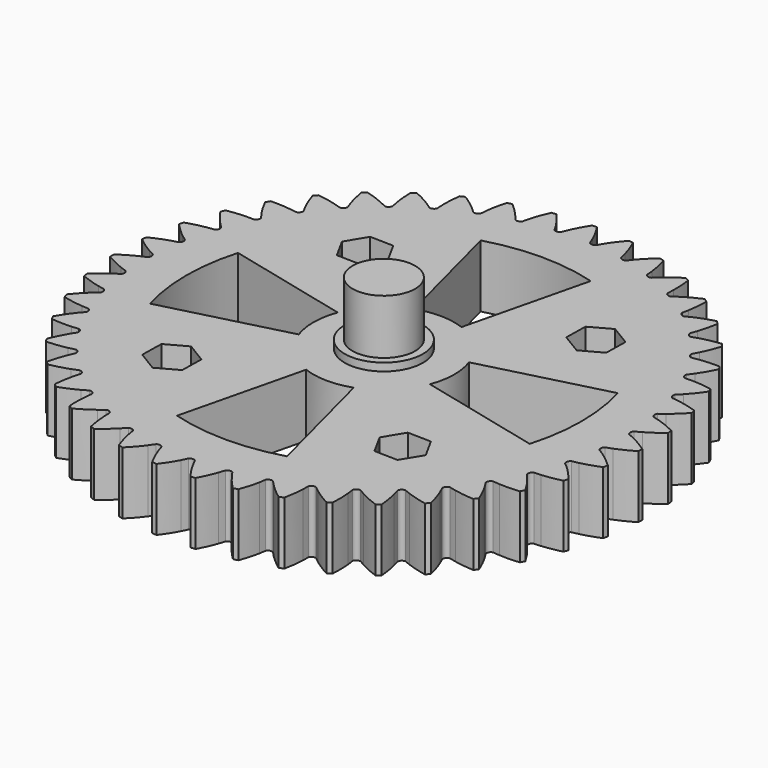
from build123d import *

# Parameters (mm, degrees)
CYLINDER_R              = 4
CYLINDER_DEPTH          = 16
EXTRUDE_DEPTH           = 8
EXTRUDE_PLACEMENT_ANGLE = -2
SKETCH_R                = 1.5
POCKET_DEPTH            = 8.001
POCKET001_DEPTH         = 5
POLARPATTERN001_COUNT   = 4
CYLINDER001_R           = 5
CYLINDER001_DEPTH       = 9
POCKET002_DEPTH         = 201.456551
POLARPATTERN002_COUNT   = 4


with BuildPart() as obj1:
    # Cylinder → Cylinder (new body)
    with BuildSketch(Plane.XY):
        Circle(CYLINDER_R)
    extrude(amount=CYLINDER_DEPTH)


with BuildPart() as polarpattern001:
    # InvoluteGear → Extrude (new body)
    with BuildSketch(Plane.XY):
        with BuildLine():
            add(Edge.make_bspline(
                [(30.694408, -1.848185), (30.944237, -1.757145), (31.209815, -1.651153), (31.489733, -1.527957)],
                knots=[0, 0, 0, 0, 1, 1, 1, 1], degree=3))
            add(Edge.make_bspline(
                [(31.489733, -1.527957), (32.167745, -1.229505), (32.928464, -0.83102), (33.748872, -0.302383)],
                knots=[0, 0, 0, 0, 1, 1, 1, 1], degree=3))
            ThreePointArc((33.748872, -0.302383), (33.750227, 0), (33.748872, 0.302383))
            add(Edge.make_bspline(
                [(33.748872, 0.302383), (32.928464, 0.83102), (32.167745, 1.229505), (31.489733, 1.527957)],
                knots=[0, 0, 0, 0, 1, 1, 1, 1], degree=3))
            add(Edge.make_bspline(
                [(31.489733, 1.527957), (31.209815, 1.651153), (30.944237, 1.757145), (30.694416, 1.848181)],
                knots=[0, 0, 0, 0, 1, 1, 1, 1], degree=3))
            ThreePointArc((30.694416, 1.848181), (30.501549, 2.232422), (30.636407, 2.640652))
            add(Edge.make_bspline(
                [(30.636407, 2.640652), (30.870318, 2.767097), (31.117634, 2.910629), (31.376631, 3.073268)],
                knots=[0, 0, 0, 0, 1, 1, 1, 1], degree=3))
            add(Edge.make_bspline(
                [(31.376631, 3.073268), (32.003963, 3.467258), (32.698555, 3.972258), (33.43325, 4.614714)],
                knots=[0, 0, 0, 0, 1, 1, 1, 1], degree=3))
            ThreePointArc((33.43325, 4.614714), (33.390563, 4.914072), (33.345195, 5.213036))
            add(Edge.make_bspline(
                [(33.345195, 5.213036), (32.45656, 5.616587), (31.645928, 5.900064), (30.931686, 6.096616)],
                knots=[0, 0, 0, 0, 1, 1, 1, 1], degree=3))
            add(Edge.make_bspline(
                [(30.931686, 6.096616), (30.636814, 6.177743), (30.358633, 6.243937), (30.098219, 6.297629)],
                knots=[0, 0, 0, 0, 1, 1, 1, 1], degree=3))
            ThreePointArc((30.098219, 6.297629), (29.851462, 6.649693), (29.925444, 7.073208))
            add(Edge.make_bspline(
                [(29.925444, 7.073208), (30.138451, 7.232363), (30.362234, 7.410375), (30.59479, 7.608991)],
                knots=[0, 0, 0, 0, 1, 1, 1, 1], degree=3))
            add(Edge.make_bspline(
                [(30.59479, 7.608991), (31.158072, 8.090123), (31.771733, 8.690875), (32.405056, 9.433457)],
                knots=[0, 0, 0, 0, 1, 1, 1, 1], degree=3))
            ThreePointArc((32.405056, 9.433457), (32.319237, 9.72341), (32.230824, 10.012582))
            add(Edge.make_bspline(
                [(32.230824, 10.012582), (31.292901, 10.282447), (30.449633, 10.444874), (29.714384, 10.535336)],
                knots=[0, 0, 0, 0, 1, 1, 1, 1], degree=3))
            add(Edge.make_bspline(
                [(29.714384, 10.535336), (29.410842, 10.572665), (29.125988, 10.59765), (28.860531, 10.612853)],
                knots=[0, 0, 0, 0, 1, 1, 1, 1], degree=3))
            ThreePointArc((28.860531, 10.612853), (28.565143, 10.925238), (28.576673, 11.355011))
            add(Edge.make_bspline(
                [(28.576673, 11.355011), (28.764236, 11.543485), (28.959715, 11.752182), (29.160875, 11.982542)],
                knots=[0, 0, 0, 0, 1, 1, 1, 1], degree=3))
            add(Edge.make_bspline(
                [(29.160875, 11.982542), (29.6481, 12.540561), (30.167752, 13.224261), (30.686205, 14.051142)],
                knots=[0, 0, 0, 0, 1, 1, 1, 1], degree=3))
            ThreePointArc((30.686205, 14.051142), (30.559083, 14.32551), (30.429508, 14.598727))
            add(Edge.make_bspline(
                [(30.429508, 14.598727), (29.462288, 14.729153), (28.604357, 14.767069), (27.863772, 14.749514)],
                knots=[0, 0, 0, 0, 1, 1, 1, 1], degree=3))
            add(Edge.make_bspline(
                [(27.863772, 14.749514), (27.55803, 14.742249), (27.272572, 14.725492), (27.007731, 14.701883)],
                knots=[0, 0, 0, 0, 1, 1, 1, 1], degree=3))
            ThreePointArc((27.007731, 14.701883), (26.670007, 14.96793), (26.618839, 15.394802))
            add(Edge.make_bspline(
                [(26.618839, 15.394802), (26.776962, 15.608576), (26.939971, 15.843512), (27.105446, 16.100706)],
                knots=[0, 0, 0, 0, 1, 1, 1, 1], degree=3))
            add(Edge.make_bspline(
                [(27.105446, 16.100706), (27.506231, 16.723719), (27.920798, 17.475795), (28.313331, 18.369352)],
                knots=[0, 0, 0, 0, 1, 1, 1, 1], degree=3))
            ThreePointArc((28.313331, 18.369352), (28.147615, 18.622286), (27.97964, 18.873726))
            add(Edge.make_bspline(
                [(27.97964, 18.873726), (27.003737, 18.861933), (26.149428, 18.774529), (25.419291, 18.649332)],
                knots=[0, 0, 0, 0, 1, 1, 1, 1], degree=3))
            add(Edge.make_bspline(
                [(25.419291, 18.649332), (25.117865, 18.597627), (24.83789, 18.539487), (24.579309, 18.477568)],
                knots=[0, 0, 0, 0, 1, 1, 1, 1], degree=3))
            ThreePointArc((24.579309, 18.477568), (24.206447, 18.691606), (24.09367, 19.106479))
            add(Edge.make_bspline(
                [(24.09367, 19.106479), (24.218983, 19.340998), (24.346048, 19.597164), (24.472312, 19.875711)],
                knots=[0, 0, 0, 0, 1, 1, 1, 1], degree=3))
            add(Edge.make_bspline(
                [(24.472312, 19.875711), (24.778114, 20.55044), (25.07876, 21.354863), (25.337007, 22.29605)],
                knots=[0, 0, 0, 0, 1, 1, 1, 1], degree=3))
            ThreePointArc((25.337007, 22.29605), (25.13623, 22.522161), (24.933435, 22.746464))
            add(Edge.make_bspline(
                [(24.933435, 22.746464), (23.969649, 22.592704), (23.13717, 22.381843), (22.433043, 22.151671)],
                knots=[0, 0, 0, 0, 1, 1, 1, 1], degree=3))
            add(Edge.make_bspline(
                [(22.433043, 22.151671), (22.142357, 22.05663), (21.873831, 21.958344), (21.627021, 21.859435)],
                knots=[0, 0, 0, 0, 1, 1, 1, 1], degree=3))
            ThreePointArc((21.627021, 21.859435), (21.226968, 22.016903), (21.054987, 22.410935))
            add(Edge.make_bspline(
                [(21.054987, 22.410935), (21.144818, 22.661201), (21.233231, 22.933137), (21.317592, 23.2271)],
                knots=[0, 0, 0, 0, 1, 1, 1, 1], degree=3))
            add(Edge.make_bspline(
                [(21.317592, 23.2271), (21.521895, 23.939164), (21.702212, 24.778788), (21.820669, 25.747547)],
                knots=[0, 0, 0, 0, 1, 1, 1, 1], degree=3))
            ThreePointArc((21.820669, 25.747547), (21.589109, 25.942015), (21.355817, 26.1344))
            add(Edge.make_bspline(
                [(21.355817, 26.1344), (20.424689, 25.841951), (19.631783, 25.512127), (18.968673, 25.181886)],
                knots=[0, 0, 0, 0, 1, 1, 1, 1], degree=3))
            add(Edge.make_bspline(
                [(18.968673, 25.181886), (18.694923, 25.045533), (18.443569, 24.909197), (18.21379, 24.775407)],
                knots=[0, 0, 0, 0, 1, 1, 1, 1], degree=3))
            ThreePointArc((18.21379, 24.775407), (17.795073, 24.872949), (17.567554, 25.237741))
            add(Edge.make_bspline(
                [(17.567554, 25.237741), (17.619988, 25.498419), (17.667864, 25.780331), (17.708526, 26.083444)],
                knots=[0, 0, 0, 0, 1, 1, 1, 1], degree=3))
            add(Edge.make_bspline(
                [(17.708526, 26.083444), (17.806974, 26.817666), (17.863119, 27.674597), (17.839261, 28.65028)],
                knots=[0, 0, 0, 0, 1, 1, 1, 1], degree=3))
            ThreePointArc((17.839261, 28.65028), (17.581855, 28.80896), (17.323036, 28.965328))
            add(Edge.make_bspline(
                [(17.323036, 28.965328), (16.444412, 28.540422), (15.707979, 28.098664), (15.100019, 27.675393)],
                knots=[0, 0, 0, 0, 1, 1, 1, 1], degree=3))
            add(Edge.make_bspline(
                [(15.100019, 27.675393), (14.849039, 27.500635), (14.620214, 27.329154), (14.412364, 27.163333)],
                knots=[0, 0, 0, 0, 1, 1, 1, 1], degree=3))
            ThreePointArc((14.412364, 27.163333), (13.983907, 27.19887), (13.705698, 27.526648))
            add(Edge.make_bspline(
                [(13.705698, 27.526648), (13.719619, 27.792182), (13.725938, 28.078061), (13.722033, 28.383864)],
                knots=[0, 0, 0, 0, 1, 1, 1, 1], degree=3))
            add(Edge.make_bspline(
                [(13.722033, 28.383864), (13.712528, 29.124596), (13.643304, 29.98057), (13.477641, 30.942382)],
                knots=[0, 0, 0, 0, 1, 1, 1, 1], degree=3))
            ThreePointArc((13.477641, 30.942382), (13.199873, 31.061892), (12.921046, 31.178909))
            add(Edge.make_bspline(
                [(12.921046, 31.178909), (12.113651, 30.630602), (11.449386, 30.086327), (10.909534, 29.579047)],
                knots=[0, 0, 0, 0, 1, 1, 1, 1], degree=3))
            add(Edge.make_bspline(
                [(10.909534, 29.579047), (10.686674, 29.369608), (10.485255, 29.166638), (10.303764, 28.972321)],
                knots=[0, 0, 0, 0, 1, 1, 1, 1], degree=3))
            ThreePointArc((10.303764, 28.972321), (9.874699, 28.945095), (9.55173, 29.228872))
            add(Edge.make_bspline(
                [(9.55173, 29.228872), (9.52684, 29.493604), (9.491468, 29.777356), (9.443078, 30.079332)],
                knots=[0, 0, 0, 0, 1, 1, 1, 1], degree=3))
            add(Edge.make_bspline(
                [(9.443078, 30.079332), (9.325823, 30.810786), (9.132707, 31.647559), (8.828767, 32.575001)],
                knots=[0, 0, 0, 0, 1, 1, 1, 1], degree=3))
            ThreePointArc((8.828767, 32.575001), (8.536559, 32.652794), (8.243665, 32.727966))
            add(Edge.make_bspline(
                [(8.243665, 32.727966), (7.524709, 32.067945), (6.94677, 31.432752), (6.486531, 30.852275)],
                knots=[0, 0, 0, 0, 1, 1, 1, 1], degree=3))
            add(Edge.make_bspline(
                [(6.486531, 30.852275), (6.296541, 30.612619), (6.126821, 30.382485), (5.975557, 30.163813)],
                knots=[0, 0, 0, 0, 1, 1, 1, 1], degree=3))
            ThreePointArc((5.975557, 30.163813), (5.555028, 30.074406), (5.194182, 30.308134))
            add(Edge.make_bspline(
                [(5.194182, 30.308134), (5.131012, 30.56642), (5.054703, 30.841998), (4.962861, 31.133711)],
                knots=[0, 0, 0, 0, 1, 1, 1, 1], degree=3))
            add(Edge.make_bspline(
                [(4.962861, 31.133711), (4.740355, 31.840298), (4.427461, 32.640036), (3.991724, 33.51334)],
                knots=[0, 0, 0, 0, 1, 1, 1, 1], degree=3))
            ThreePointArc((3.991724, 33.51334), (3.691303, 33.547758), (3.390586, 33.579484))
            add(Edge.make_bspline(
                [(3.390586, 33.579484), (2.775391, 32.821815), (2.296096, 32.109243), (1.925279, 31.46794)],
                knots=[0, 0, 0, 0, 1, 1, 1, 1], degree=3))
            add(Edge.make_bspline(
                [(1.925279, 31.46794), (1.772208, 31.203176), (1.637805, 30.950782), (1.519991, 30.712417)],
                knots=[0, 0, 0, 0, 1, 1, 1, 1], degree=3))
            ThreePointArc((1.519991, 30.712417), (1.116962, 30.562732), (0.72593, 30.74143))
            add(Edge.make_bspline(
                [(0.72593, 30.74143), (0.625827, 30.987767), (0.510206, 31.249297), (0.376869, 31.524529)],
                knots=[0, 0, 0, 0, 1, 1, 1, 1], degree=3))
            add(Edge.make_bspline(
                [(0.376869, 31.524529), (0.053854, 32.191189), (-0.372148, 32.936846), (-0.930395, 33.7374)],
                knots=[0, 0, 0, 0, 1, 1, 1, 1], degree=3))
            ThreePointArc((-0.930395, 33.7374), (-1.232627, 33.72771), (-1.534759, 33.715313))
            add(Edge.make_bspline(
                [(-1.534759, 33.715313), (-2.03308, 32.876145), (-2.403516, 32.101381), (-2.677006, 31.41292)],
                knots=[0, 0, 0, 0, 1, 1, 1, 1], degree=3))
            add(Edge.make_bspline(
                [(-2.677006, 31.41292), (-2.789897, 31.12869), (-2.886119, 30.859418), (-2.967971, 30.606438)],
                knots=[0, 0, 0, 0, 1, 1, 1, 1], degree=3))
            ThreePointArc((-2.967971, 30.606438), (-3.344911, 30.399667), (-3.757794, 30.519526))
            add(Edge.make_bspline(
                [(-3.757794, 30.519526), (-3.892698, 30.748662), (-4.045166, 30.990571), (-4.217155, 31.243456)],
                knots=[0, 0, 0, 0, 1, 1, 1, 1], degree=3))
            add(Edge.make_bspline(
                [(-4.217155, 31.243456), (-4.633795, 31.85598), (-5.163826, 32.531665), (-5.832685, 33.242406)],
                knots=[0, 0, 0, 0, 1, 1, 1, 1], degree=3))
            ThreePointArc((-5.832685, 33.242406), (-6.130285, 33.188814), (-6.427392, 33.132558))
            add(Edge.make_bspline(
                [(-6.427392, 33.132558), (-6.798219, 32.229778), (-7.051901, 31.409333), (-7.222236, 30.688389)],
                knots=[0, 0, 0, 0, 1, 1, 1, 1], degree=3))
            add(Edge.make_bspline(
                [(-7.222236, 30.688389), (-7.29254, 30.390751), (-7.34853, 30.110338), (-7.392675, 29.848137)],
                knots=[0, 0, 0, 0, 1, 1, 1, 1], degree=3))
            ThreePointArc((-7.392675, 29.848137), (-7.735493, 29.588686), (-8.161427, 29.647152))
            add(Edge.make_bspline(
                [(-8.161427, 29.647152), (-8.328256, 29.854204), (-8.514321, 30.071335), (-8.721298, 30.296483)],
                knots=[0, 0, 0, 0, 1, 1, 1, 1], degree=3))
            add(Edge.make_bspline(
                [(-8.721298, 30.296483), (-9.222682, 30.841817), (-9.845445, 31.433128), (-10.610662, 32.038908)],
                knots=[0, 0, 0, 0, 1, 1, 1, 1], degree=3))
            ThreePointArc((-10.610662, 32.038908), (-10.897287, 31.942557), (-11.183037, 31.843641))
            add(Edge.make_bspline(
                [(-11.183037, 31.843641), (-11.418467, 30.896488), (-11.549987, 30.04785), (-11.613537, 29.309788)],
                knots=[0, 0, 0, 0, 1, 1, 1, 1], degree=3))
            add(Edge.make_bspline(
                [(-11.613537, 29.309788), (-11.639754, 29.005086), (-11.65432, 28.719509), (-11.659818, 28.453674)],
                knots=[0, 0, 0, 0, 1, 1, 1, 1], degree=3))
            ThreePointArc((-11.659818, 28.453674), (-11.961206, 28.147074), (-12.391114, 28.1429))
            add(Edge.make_bspline(
                [(-12.391114, 28.1429), (-12.586311, 28.323455), (-12.802009, 28.511181), (-13.039562, 28.703793)],
                knots=[0, 0, 0, 0, 1, 1, 1, 1], degree=3))
            add(Edge.make_bspline(
                [(-13.039562, 28.703793), (-13.615004, 29.170314), (-14.317226, 29.664649), (-15.16249, 30.152557)],
                knots=[0, 0, 0, 0, 1, 1, 1, 1], degree=3))
            ThreePointArc((-15.16249, 30.152557), (-15.432032, 30.015499), (-15.700335, 29.876032))
            add(Edge.make_bspline(
                [(-15.700335, 29.876032), (-15.795349, 28.904693), (-15.801906, 28.04595), (-15.757315, 27.3065)],
                knots=[0, 0, 0, 0, 1, 1, 1, 1], degree=3))
            add(Edge.make_bspline(
                [(-15.757315, 27.3065), (-15.738888, 27.001227), (-15.711718, 26.716573), (-15.678452, 26.452771)],
                knots=[0, 0, 0, 0, 1, 1, 1, 1], degree=3))
            ThreePointArc((-15.678452, 26.452771), (-15.931986, 26.105555), (-16.356705, 26.038831))
            add(Edge.make_bspline(
                [(-16.356705, 26.038831), (-16.576112, 26.189041), (-16.816844, 26.343361), (-17.07991, 26.499332)],
                knots=[0, 0, 0, 0, 1, 1, 1, 1], degree=3))
            add(Edge.make_bspline(
                [(-17.07991, 26.499332), (-17.717145, 26.877096), (-18.48386, 27.263919), (-19.391157, 27.623556)],
                knots=[0, 0, 0, 0, 1, 1, 1, 1], degree=3))
            ThreePointArc((-19.391157, 27.623556), (-19.63787, 27.448713), (-19.883007, 27.271667))
            add(Edge.make_bspline(
                [(-19.883007, 27.271667), (-19.835581, 26.296845), (-19.717034, 25.446299), (-19.565254, 24.721221)],
                knots=[0, 0, 0, 0, 1, 1, 1, 1], degree=3))
            add(Edge.make_bspline(
                [(-19.565254, 24.721221), (-19.502575, 24.421885), (-19.434248, 24.14422), (-19.362926, 23.888072)],
                knots=[0, 0, 0, 0, 1, 1, 1, 1], degree=3))
            ThreePointArc((-19.362926, 23.888072), (-19.563204, 23.507642), (-19.973682, 23.379789))
            add(Edge.make_bspline(
                [(-19.973682, 23.379789), (-20.212621, 23.496452), (-20.473257, 23.614077), (-20.756229, 23.730084)],
                knots=[0, 0, 0, 0, 1, 1, 1, 1], degree=3))
            add(Edge.make_bspline(
                [(-20.756229, 23.730084), (-21.441677, 24.01104), (-22.256543, 24.282106), (-23.206534, 24.505807)],
                knots=[0, 0, 0, 0, 1, 1, 1, 1], degree=3))
            ThreePointArc((-23.206534, 24.505807), (-23.425161, 24.296905), (-23.641908, 24.086054))
            add(Edge.make_bspline(
                [(-23.641908, 24.086054), (-23.453052, 23.128526), (-23.211927, 22.304304), (-22.956193, 21.609053)],
                knots=[0, 0, 0, 0, 1, 1, 1, 1], degree=3))
            add(Edge.make_bspline(
                [(-22.956193, 21.609053), (-22.850598, 21.322032), (-22.742571, 21.057274), (-22.634714, 20.814241)],
                knots=[0, 0, 0, 0, 1, 1, 1, 1], degree=3))
            ThreePointArc((-22.634714, 20.814241), (-22.777467, 20.408705), (-23.164954, 20.222448))
            add(Edge.make_bspline(
                [(-23.164954, 20.222448), (-23.418334, 20.303078), (-23.693318, 20.3815), (-23.990166, 20.45507)],
                knots=[0, 0, 0, 0, 1, 1, 1, 1], degree=3))
            add(Edge.make_bspline(
                [(-23.990166, 20.45507), (-24.709216, 20.63323), (-25.554866, 20.782761), (-26.527305, 20.865759)],
                knots=[0, 0, 0, 0, 1, 1, 1, 1], degree=3))
            ThreePointArc((-26.527305, 20.865759), (-26.713186, 20.627251), (-26.896922, 20.387088))
            add(Edge.make_bspline(
                [(-26.896922, 20.387088), (-26.570662, 19.467262), (-26.212099, 18.686931), (-25.85786, 18.036324)],
                knots=[0, 0, 0, 0, 1, 1, 1, 1], degree=3))
            add(Edge.make_bspline(
                [(-25.85786, 18.036324), (-25.7116, 17.767737), (-25.566175, 17.52153), (-25.424082, 17.296791)],
                knots=[0, 0, 0, 0, 1, 1, 1, 1], degree=3))
            ThreePointArc((-25.424082, 17.296791), (-25.506267, 16.874791), (-25.862506, 16.6341))
            add(Edge.make_bspline(
                [(-25.862506, 16.6341), (-26.124925, 16.676979), (-26.408397, 16.714527), (-26.712793, 16.744091)],
                knots=[0, 0, 0, 0, 1, 1, 1, 1], degree=3))
            add(Edge.make_bspline(
                [(-26.712793, 16.744091), (-27.450121, 16.815658), (-28.308531, 16.840469), (-29.282692, 16.780994)],
                knots=[0, 0, 0, 0, 1, 1, 1, 1], degree=3))
            ThreePointArc((-29.282692, 16.780994), (-29.431865, 16.517963), (-29.578676, 16.253607))
            add(Edge.make_bspline(
                [(-29.578676, 16.253607), (-29.121964, 15.391087), (-28.653605, 14.671279), (-28.208412, 14.079183)],
                knots=[0, 0, 0, 0, 1, 1, 1, 1], degree=3))
            add(Edge.make_bspline(
                [(-28.208412, 14.079183), (-28.024605, 13.834754), (-27.844881, 13.612344), (-27.67158, 13.410689)],
                knots=[0, 0, 0, 0, 1, 1, 1, 1], degree=3))
            ThreePointArc((-27.67158, 13.410689), (-27.691445, 12.98122), (-28.008843, 12.691226))
            add(Edge.make_bspline(
                [(-28.008843, 12.691226), (-28.274709, 12.695439), (-28.560628, 12.691313), (-28.866084, 12.676242)],
                knots=[0, 0, 0, 0, 1, 1, 1, 1], degree=3))
            add(Edge.make_bspline(
                [(-28.866084, 12.676242), (-29.605975, 12.63969), (-30.45885, 12.539251), (-31.413969, 12.33857)],
                knots=[0, 0, 0, 0, 1, 1, 1, 1], degree=3))
            ThreePointArc((-31.413969, 12.33857), (-31.523255, 12.056623), (-31.630011, 11.773709))
            add(Edge.make_bspline(
                [(-31.630011, 11.773709), (-31.052582, 10.986878), (-30.48441, 10.342934), (-29.957751, 9.821969)],
                knots=[0, 0, 0, 0, 1, 1, 1, 1], degree=3))
            add(Edge.make_bspline(
                [(-29.957751, 9.821969), (-29.740313, 9.606907), (-29.530122, 9.413035), (-29.329306, 9.238762)],
                knots=[0, 0, 0, 0, 1, 1, 1, 1], degree=3))
            ThreePointArc((-29.329306, 9.238762), (-29.286428, 8.810977), (-29.55822, 8.47786))
            add(Edge.make_bspline(
                [(-29.55822, 8.47786), (-29.821866, 8.443318), (-30.104138, 8.397606), (-30.404145, 8.33822)],
                knots=[0, 0, 0, 0, 1, 1, 1, 1], degree=3))
            add(Edge.make_bspline(
                [(-30.404145, 8.33822), (-31.130829, 8.194329), (-31.959991, 7.970781), (-32.875713, 7.633172)],
                knots=[0, 0, 0, 0, 1, 1, 1, 1], degree=3))
            ThreePointArc((-32.875713, 7.633172), (-32.942782, 7.338318), (-33.007207, 7.042874))
            add(Edge.make_bspline(
                [(-33.007207, 7.042874), (-32.321368, 6.348503), (-31.665492, 5.794148), (-31.068593, 5.355416)],
                knots=[0, 0, 0, 0, 1, 1, 1, 1], degree=3))
            add(Edge.make_bspline(
                [(-31.068593, 5.355416), (-30.822158, 5.174305), (-30.585979, 5.013104), (-30.361929, 4.869927)],
                knots=[0, 0, 0, 0, 1, 1, 1, 1], degree=3))
            ThreePointArc((-30.361929, 4.869927), (-30.257222, 4.452944), (-30.477616, 4.083803))
            add(Edge.make_bspline(
                [(-30.477616, 4.083803), (-30.733423, 4.011242), (-31.00603, 3.924918), (-31.294194, 3.822484)],
                knots=[0, 0, 0, 0, 1, 1, 1, 1], degree=3))
            add(Edge.make_bspline(
                [(-31.294194, 3.822484), (-31.992183, 3.57432), (-32.77996, 3.232427), (-33.636767, 2.765086)],
                knots=[0, 0, 0, 0, 1, 1, 1, 1], degree=3))
            ThreePointArc((-33.636767, 2.765086), (-33.660191, 2.463608), (-33.680912, 2.161933))
            add(Edge.make_bspline(
                [(-33.680912, 2.161933), (-32.901281, 1.57482), (-32.171679, 1.121869), (-31.517261, 0.774722)],
                knots=[0, 0, 0, 0, 1, 1, 1, 1], degree=3))
            add(Edge.make_bspline(
                [(-31.517261, 0.774722), (-31.247083, 0.631422), (-30.989949, 0.506327), (-30.74744, 0.397297)],
                knots=[0, 0, 0, 0, 1, 1, 1, 1], degree=3))
            ThreePointArc((-30.74744, 0.397297), (-30.583136, 4e-06), (-30.747433, -0.397293))
            add(Edge.make_bspline(
                [(-30.747433, -0.397293), (-30.989949, -0.506327), (-31.247083, -0.631422), (-31.517261, -0.774722)],
                knots=[0, 0, 0, 0, 1, 1, 1, 1], degree=3))
            add(Edge.make_bspline(
                [(-31.517261, -0.774722), (-32.171679, -1.121869), (-32.901281, -1.57482), (-33.680912, -2.161933)],
                knots=[0, 0, 0, 0, 1, 1, 1, 1], degree=3))
            ThreePointArc((-33.680912, -2.161933), (-33.660191, -2.463608), (-33.636767, -2.765086))
            add(Edge.make_bspline(
                [(-33.636767, -2.765086), (-32.77996, -3.232427), (-31.992183, -3.57432), (-31.294194, -3.822484)],
                knots=[0, 0, 0, 0, 1, 1, 1, 1], degree=3))
            add(Edge.make_bspline(
                [(-31.294194, -3.822484), (-31.00603, -3.924918), (-30.733423, -4.011242), (-30.477623, -4.0838)],
                knots=[0, 0, 0, 0, 1, 1, 1, 1], degree=3))
            ThreePointArc((-30.477623, -4.0838), (-30.257223, -4.452937), (-30.361923, -4.869922))
            add(Edge.make_bspline(
                [(-30.361923, -4.869922), (-30.585979, -5.013104), (-30.822158, -5.174305), (-31.068593, -5.355416)],
                knots=[0, 0, 0, 0, 1, 1, 1, 1], degree=3))
            add(Edge.make_bspline(
                [(-31.068593, -5.355416), (-31.665492, -5.794148), (-32.321368, -6.348503), (-33.007207, -7.042874)],
                knots=[0, 0, 0, 0, 1, 1, 1, 1], degree=3))
            ThreePointArc((-33.007207, -7.042874), (-32.942782, -7.338318), (-32.875713, -7.633172))
            add(Edge.make_bspline(
                [(-32.875713, -7.633172), (-31.959991, -7.970781), (-31.130829, -8.194329), (-30.404145, -8.33822)],
                knots=[0, 0, 0, 0, 1, 1, 1, 1], degree=3))
            add(Edge.make_bspline(
                [(-30.404145, -8.33822), (-30.104138, -8.397606), (-29.821866, -8.443318), (-29.558228, -8.477857)],
                knots=[0, 0, 0, 0, 1, 1, 1, 1], degree=3))
            ThreePointArc((-29.558228, -8.477857), (-29.28643, -8.810971), (-29.329301, -9.238756))
            add(Edge.make_bspline(
                [(-29.329301, -9.238756), (-29.530122, -9.413035), (-29.740313, -9.606907), (-29.957751, -9.821969)],
                knots=[0, 0, 0, 0, 1, 1, 1, 1], degree=3))
            add(Edge.make_bspline(
                [(-29.957751, -9.821969), (-30.48441, -10.342934), (-31.052582, -10.986878), (-31.630011, -11.773709)],
                knots=[0, 0, 0, 0, 1, 1, 1, 1], degree=3))
            ThreePointArc((-31.630011, -11.773709), (-31.523255, -12.056623), (-31.413969, -12.33857))
            add(Edge.make_bspline(
                [(-31.413969, -12.33857), (-30.45885, -12.539251), (-29.605975, -12.63969), (-28.866084, -12.676242)],
                knots=[0, 0, 0, 0, 1, 1, 1, 1], degree=3))
            add(Edge.make_bspline(
                [(-28.866084, -12.676242), (-28.560628, -12.691313), (-28.274709, -12.695439), (-28.008851, -12.691225)],
                knots=[0, 0, 0, 0, 1, 1, 1, 1], degree=3))
            ThreePointArc((-28.008851, -12.691225), (-27.691448, -12.981214), (-27.671576, -13.410682))
            add(Edge.make_bspline(
                [(-27.671576, -13.410682), (-27.844881, -13.612344), (-28.024605, -13.834754), (-28.208412, -14.079183)],
                knots=[0, 0, 0, 0, 1, 1, 1, 1], degree=3))
            add(Edge.make_bspline(
                [(-28.208412, -14.079183), (-28.653605, -14.671279), (-29.121964, -15.391087), (-29.578676, -16.253607)],
                knots=[0, 0, 0, 0, 1, 1, 1, 1], degree=3))
            ThreePointArc((-29.578676, -16.253607), (-29.431865, -16.517963), (-29.282692, -16.780994))
            add(Edge.make_bspline(
                [(-29.282692, -16.780994), (-28.308531, -16.840469), (-27.450121, -16.815658), (-26.712793, -16.744091)],
                knots=[0, 0, 0, 0, 1, 1, 1, 1], degree=3))
            add(Edge.make_bspline(
                [(-26.712793, -16.744091), (-26.408397, -16.714527), (-26.124925, -16.676979), (-25.862514, -16.6341)],
                knots=[0, 0, 0, 0, 1, 1, 1, 1], degree=3))
            ThreePointArc((-25.862514, -16.6341), (-25.506271, -16.874785), (-25.424079, -17.296783))
            add(Edge.make_bspline(
                [(-25.424079, -17.296783), (-25.566175, -17.52153), (-25.7116, -17.767737), (-25.85786, -18.036324)],
                knots=[0, 0, 0, 0, 1, 1, 1, 1], degree=3))
            add(Edge.make_bspline(
                [(-25.85786, -18.036324), (-26.212099, -18.686931), (-26.570662, -19.467262), (-26.896922, -20.387088)],
                knots=[0, 0, 0, 0, 1, 1, 1, 1], degree=3))
            ThreePointArc((-26.896922, -20.387088), (-26.713186, -20.627251), (-26.527305, -20.865759))
            add(Edge.make_bspline(
                [(-26.527305, -20.865759), (-25.554866, -20.782761), (-24.709216, -20.63323), (-23.990166, -20.45507)],
                knots=[0, 0, 0, 0, 1, 1, 1, 1], degree=3))
            add(Edge.make_bspline(
                [(-23.990166, -20.45507), (-23.693318, -20.3815), (-23.418334, -20.303078), (-23.164962, -20.222449)],
                knots=[0, 0, 0, 0, 1, 1, 1, 1], degree=3))
            ThreePointArc((-23.164962, -20.222449), (-22.777471, -20.408699), (-22.634712, -20.814234))
            add(Edge.make_bspline(
                [(-22.634712, -20.814234), (-22.742571, -21.057274), (-22.850598, -21.322032), (-22.956193, -21.609053)],
                knots=[0, 0, 0, 0, 1, 1, 1, 1], degree=3))
            add(Edge.make_bspline(
                [(-22.956193, -21.609053), (-23.211927, -22.304304), (-23.453052, -23.128526), (-23.641908, -24.086054)],
                knots=[0, 0, 0, 0, 1, 1, 1, 1], degree=3))
            ThreePointArc((-23.641908, -24.086054), (-23.425161, -24.296905), (-23.206534, -24.505807))
            add(Edge.make_bspline(
                [(-23.206534, -24.505807), (-22.256543, -24.282106), (-21.441677, -24.01104), (-20.756229, -23.730084)],
                knots=[0, 0, 0, 0, 1, 1, 1, 1], degree=3))
            add(Edge.make_bspline(
                [(-20.756229, -23.730084), (-20.473257, -23.614077), (-20.212621, -23.496452), (-19.97369, -23.379791)],
                knots=[0, 0, 0, 0, 1, 1, 1, 1], degree=3))
            ThreePointArc((-19.97369, -23.379791), (-19.56321, -23.507638), (-19.362925, -23.888064))
            add(Edge.make_bspline(
                [(-19.362925, -23.888064), (-19.434248, -24.14422), (-19.502575, -24.421885), (-19.565254, -24.721221)],
                knots=[0, 0, 0, 0, 1, 1, 1, 1], degree=3))
            add(Edge.make_bspline(
                [(-19.565254, -24.721221), (-19.717034, -25.446299), (-19.835581, -26.296845), (-19.883007, -27.271667)],
                knots=[0, 0, 0, 0, 1, 1, 1, 1], degree=3))
            ThreePointArc((-19.883007, -27.271667), (-19.63787, -27.448713), (-19.391157, -27.623556))
            add(Edge.make_bspline(
                [(-19.391157, -27.623556), (-18.48386, -27.263919), (-17.717145, -26.877096), (-17.07991, -26.499332)],
                knots=[0, 0, 0, 0, 1, 1, 1, 1], degree=3))
            add(Edge.make_bspline(
                [(-17.07991, -26.499332), (-16.816844, -26.343361), (-16.576112, -26.189041), (-16.356712, -26.038834)],
                knots=[0, 0, 0, 0, 1, 1, 1, 1], degree=3))
            ThreePointArc((-16.356712, -26.038834), (-15.931992, -26.105552), (-15.678452, -26.452763))
            add(Edge.make_bspline(
                [(-15.678452, -26.452763), (-15.711718, -26.716573), (-15.738888, -27.001227), (-15.757315, -27.3065)],
                knots=[0, 0, 0, 0, 1, 1, 1, 1], degree=3))
            add(Edge.make_bspline(
                [(-15.757315, -27.3065), (-15.801906, -28.04595), (-15.795349, -28.904693), (-15.700335, -29.876032)],
                knots=[0, 0, 0, 0, 1, 1, 1, 1], degree=3))
            ThreePointArc((-15.700335, -29.876032), (-15.432032, -30.015499), (-15.16249, -30.152557))
            add(Edge.make_bspline(
                [(-15.16249, -30.152557), (-14.317226, -29.664649), (-13.615004, -29.170314), (-13.039562, -28.703793)],
                knots=[0, 0, 0, 0, 1, 1, 1, 1], degree=3))
            add(Edge.make_bspline(
                [(-13.039562, -28.703793), (-12.802009, -28.511181), (-12.586311, -28.323455), (-12.39112, -28.142904)],
                knots=[0, 0, 0, 0, 1, 1, 1, 1], degree=3))
            ThreePointArc((-12.39112, -28.142904), (-11.961212, -28.147071), (-11.659819, -28.453666))
            add(Edge.make_bspline(
                [(-11.659819, -28.453666), (-11.65432, -28.719509), (-11.639754, -29.005086), (-11.613537, -29.309788)],
                knots=[0, 0, 0, 0, 1, 1, 1, 1], degree=3))
            add(Edge.make_bspline(
                [(-11.613537, -29.309788), (-11.549987, -30.04785), (-11.418467, -30.896488), (-11.183037, -31.843641)],
                knots=[0, 0, 0, 0, 1, 1, 1, 1], degree=3))
            ThreePointArc((-11.183037, -31.843641), (-10.897287, -31.942557), (-10.610662, -32.038908))
            add(Edge.make_bspline(
                [(-10.610662, -32.038908), (-9.845445, -31.433128), (-9.222682, -30.841817), (-8.721298, -30.296483)],
                knots=[0, 0, 0, 0, 1, 1, 1, 1], degree=3))
            add(Edge.make_bspline(
                [(-8.721298, -30.296483), (-8.514321, -30.071335), (-8.328256, -29.854204), (-8.161433, -29.647157)],
                knots=[0, 0, 0, 0, 1, 1, 1, 1], degree=3))
            ThreePointArc((-8.161433, -29.647157), (-7.735499, -29.588685), (-7.392678, -29.848129))
            add(Edge.make_bspline(
                [(-7.392678, -29.848129), (-7.34853, -30.110338), (-7.29254, -30.390751), (-7.222236, -30.688389)],
                knots=[0, 0, 0, 0, 1, 1, 1, 1], degree=3))
            add(Edge.make_bspline(
                [(-7.222236, -30.688389), (-7.051901, -31.409333), (-6.798219, -32.229778), (-6.427392, -33.132558)],
                knots=[0, 0, 0, 0, 1, 1, 1, 1], degree=3))
            ThreePointArc((-6.427392, -33.132558), (-6.130285, -33.188814), (-5.832685, -33.242406))
            add(Edge.make_bspline(
                [(-5.832685, -33.242406), (-5.163826, -32.531665), (-4.633795, -31.85598), (-4.217155, -31.243456)],
                knots=[0, 0, 0, 0, 1, 1, 1, 1], degree=3))
            add(Edge.make_bspline(
                [(-4.217155, -31.243456), (-4.045166, -30.990571), (-3.892698, -30.748662), (-3.757799, -30.519533)],
                knots=[0, 0, 0, 0, 1, 1, 1, 1], degree=3))
            ThreePointArc((-3.757799, -30.519533), (-3.344918, -30.399667), (-2.967974, -30.606431))
            add(Edge.make_bspline(
                [(-2.967974, -30.606431), (-2.886119, -30.859418), (-2.789897, -31.12869), (-2.677006, -31.41292)],
                knots=[0, 0, 0, 0, 1, 1, 1, 1], degree=3))
            add(Edge.make_bspline(
                [(-2.677006, -31.41292), (-2.403516, -32.101381), (-2.03308, -32.876145), (-1.534759, -33.715313)],
                knots=[0, 0, 0, 0, 1, 1, 1, 1], degree=3))
            ThreePointArc((-1.534759, -33.715313), (-1.232627, -33.72771), (-0.930395, -33.7374))
            add(Edge.make_bspline(
                [(-0.930395, -33.7374), (-0.372148, -32.936846), (0.053854, -32.191189), (0.376869, -31.524529)],
                knots=[0, 0, 0, 0, 1, 1, 1, 1], degree=3))
            add(Edge.make_bspline(
                [(0.376869, -31.524529), (0.510206, -31.249297), (0.625827, -30.987767), (0.725926, -30.741437)],
                knots=[0, 0, 0, 0, 1, 1, 1, 1], degree=3))
            ThreePointArc((0.725926, -30.741437), (1.116954, -30.562733), (1.519987, -30.71241))
            add(Edge.make_bspline(
                [(1.519987, -30.71241), (1.637805, -30.950782), (1.772208, -31.203176), (1.925279, -31.46794)],
                knots=[0, 0, 0, 0, 1, 1, 1, 1], degree=3))
            add(Edge.make_bspline(
                [(1.925279, -31.46794), (2.296096, -32.109243), (2.775391, -32.821815), (3.390586, -33.579484)],
                knots=[0, 0, 0, 0, 1, 1, 1, 1], degree=3))
            ThreePointArc((3.390586, -33.579484), (3.691303, -33.547758), (3.991724, -33.51334))
            add(Edge.make_bspline(
                [(3.991724, -33.51334), (4.427461, -32.640036), (4.740355, -31.840298), (4.962861, -31.133711)],
                knots=[0, 0, 0, 0, 1, 1, 1, 1], degree=3))
            add(Edge.make_bspline(
                [(4.962861, -31.133711), (5.054703, -30.841998), (5.131012, -30.56642), (5.194179, -30.308141)],
                knots=[0, 0, 0, 0, 1, 1, 1, 1], degree=3))
            ThreePointArc((5.194179, -30.308141), (5.555021, -30.074407), (5.975551, -30.163808))
            add(Edge.make_bspline(
                [(5.975551, -30.163808), (6.126821, -30.382485), (6.296541, -30.612619), (6.486531, -30.852275)],
                knots=[0, 0, 0, 0, 1, 1, 1, 1], degree=3))
            add(Edge.make_bspline(
                [(6.486531, -30.852275), (6.94677, -31.432752), (7.524709, -32.067945), (8.243665, -32.727966)],
                knots=[0, 0, 0, 0, 1, 1, 1, 1], degree=3))
            ThreePointArc((8.243665, -32.727966), (8.536559, -32.652794), (8.828767, -32.575001))
            add(Edge.make_bspline(
                [(8.828767, -32.575001), (9.132707, -31.647559), (9.325823, -30.810786), (9.443078, -30.079332)],
                knots=[0, 0, 0, 0, 1, 1, 1, 1], degree=3))
            add(Edge.make_bspline(
                [(9.443078, -30.079332), (9.491468, -29.777356), (9.52684, -29.493604), (9.551728, -29.22888)],
                knots=[0, 0, 0, 0, 1, 1, 1, 1], degree=3))
            ThreePointArc((9.551728, -29.22888), (9.874692, -28.945097), (10.303758, -28.972316))
            add(Edge.make_bspline(
                [(10.303758, -28.972316), (10.485255, -29.166638), (10.686674, -29.369608), (10.909534, -29.579047)],
                knots=[0, 0, 0, 0, 1, 1, 1, 1], degree=3))
            add(Edge.make_bspline(
                [(10.909534, -29.579047), (11.449386, -30.086327), (12.113651, -30.630602), (12.921046, -31.178909)],
                knots=[0, 0, 0, 0, 1, 1, 1, 1], degree=3))
            ThreePointArc((12.921046, -31.178909), (13.199873, -31.061892), (13.477641, -30.942382))
            add(Edge.make_bspline(
                [(13.477641, -30.942382), (13.643304, -29.98057), (13.712528, -29.124596), (13.722033, -28.383864)],
                knots=[0, 0, 0, 0, 1, 1, 1, 1], degree=3))
            add(Edge.make_bspline(
                [(13.722033, -28.383864), (13.725938, -28.078061), (13.719619, -27.792182), (13.705698, -27.526656)],
                knots=[0, 0, 0, 0, 1, 1, 1, 1], degree=3))
            ThreePointArc((13.705698, -27.526656), (13.983901, -27.198874), (14.412357, -27.163329))
            add(Edge.make_bspline(
                [(14.412357, -27.163329), (14.620214, -27.329154), (14.849039, -27.500635), (15.100019, -27.675393)],
                knots=[0, 0, 0, 0, 1, 1, 1, 1], degree=3))
            add(Edge.make_bspline(
                [(15.100019, -27.675393), (15.707979, -28.098664), (16.444412, -28.540422), (17.323036, -28.965328)],
                knots=[0, 0, 0, 0, 1, 1, 1, 1], degree=3))
            ThreePointArc((17.323036, -28.965328), (17.581855, -28.80896), (17.839261, -28.65028))
            add(Edge.make_bspline(
                [(17.839261, -28.65028), (17.863119, -27.674597), (17.806974, -26.817666), (17.708526, -26.083444)],
                knots=[0, 0, 0, 0, 1, 1, 1, 1], degree=3))
            add(Edge.make_bspline(
                [(17.708526, -26.083444), (17.667864, -25.780331), (17.619988, -25.498419), (17.567554, -25.237749)],
                knots=[0, 0, 0, 0, 1, 1, 1, 1], degree=3))
            ThreePointArc((17.567554, -25.237749), (17.795067, -24.872953), (18.213783, -24.775404))
            add(Edge.make_bspline(
                [(18.213783, -24.775404), (18.443569, -24.909197), (18.694923, -25.045533), (18.968673, -25.181886)],
                knots=[0, 0, 0, 0, 1, 1, 1, 1], degree=3))
            add(Edge.make_bspline(
                [(18.968673, -25.181886), (19.631783, -25.512127), (20.424689, -25.841951), (21.355817, -26.1344)],
                knots=[0, 0, 0, 0, 1, 1, 1, 1], degree=3))
            ThreePointArc((21.355817, -26.1344), (21.589109, -25.942015), (21.820669, -25.747547))
            add(Edge.make_bspline(
                [(21.820669, -25.747547), (21.702212, -24.778788), (21.521895, -23.939164), (21.317592, -23.2271)],
                knots=[0, 0, 0, 0, 1, 1, 1, 1], degree=3))
            add(Edge.make_bspline(
                [(21.317592, -23.2271), (21.233231, -22.933137), (21.144818, -22.661201), (21.054989, -22.410943)],
                knots=[0, 0, 0, 0, 1, 1, 1, 1], degree=3))
            ThreePointArc((21.054989, -22.410943), (21.226963, -22.016908), (21.627013, -21.859433))
            add(Edge.make_bspline(
                [(21.627013, -21.859433), (21.873831, -21.958344), (22.142357, -22.05663), (22.433043, -22.151671)],
                knots=[0, 0, 0, 0, 1, 1, 1, 1], degree=3))
            add(Edge.make_bspline(
                [(22.433043, -22.151671), (23.13717, -22.381843), (23.969649, -22.592704), (24.933435, -22.746464)],
                knots=[0, 0, 0, 0, 1, 1, 1, 1], degree=3))
            ThreePointArc((24.933435, -22.746464), (25.13623, -22.522161), (25.337007, -22.29605))
            add(Edge.make_bspline(
                [(25.337007, -22.29605), (25.07876, -21.354863), (24.778114, -20.55044), (24.472312, -19.875711)],
                knots=[0, 0, 0, 0, 1, 1, 1, 1], degree=3))
            add(Edge.make_bspline(
                [(24.472312, -19.875711), (24.346048, -19.597164), (24.218983, -19.340998), (24.093673, -19.106487)],
                knots=[0, 0, 0, 0, 1, 1, 1, 1], degree=3))
            ThreePointArc((24.093673, -19.106487), (24.206443, -18.691612), (24.579301, -18.477567))
            add(Edge.make_bspline(
                [(24.579301, -18.477567), (24.83789, -18.539487), (25.117865, -18.597627), (25.419291, -18.649332)],
                knots=[0, 0, 0, 0, 1, 1, 1, 1], degree=3))
            add(Edge.make_bspline(
                [(25.419291, -18.649332), (26.149428, -18.774529), (27.003737, -18.861933), (27.97964, -18.873726)],
                knots=[0, 0, 0, 0, 1, 1, 1, 1], degree=3))
            ThreePointArc((27.97964, -18.873726), (28.147615, -18.622286), (28.313331, -18.369352))
            add(Edge.make_bspline(
                [(28.313331, -18.369352), (27.920798, -17.475795), (27.506231, -16.723719), (27.105446, -16.100706)],
                knots=[0, 0, 0, 0, 1, 1, 1, 1], degree=3))
            add(Edge.make_bspline(
                [(27.105446, -16.100706), (26.939971, -15.843512), (26.776962, -15.608576), (26.618842, -15.394809)],
                knots=[0, 0, 0, 0, 1, 1, 1, 1], degree=3))
            ThreePointArc((26.618842, -15.394809), (26.670004, -14.967936), (27.007723, -14.701883))
            add(Edge.make_bspline(
                [(27.007723, -14.701883), (27.272572, -14.725492), (27.55803, -14.742249), (27.863772, -14.749514)],
                knots=[0, 0, 0, 0, 1, 1, 1, 1], degree=3))
            add(Edge.make_bspline(
                [(27.863772, -14.749514), (28.604357, -14.767069), (29.462288, -14.729153), (30.429508, -14.598727)],
                knots=[0, 0, 0, 0, 1, 1, 1, 1], degree=3))
            ThreePointArc((30.429508, -14.598727), (30.559083, -14.32551), (30.686205, -14.051142))
            add(Edge.make_bspline(
                [(30.686205, -14.051142), (30.167752, -13.224261), (29.6481, -12.540561), (29.160875, -11.982542)],
                knots=[0, 0, 0, 0, 1, 1, 1, 1], degree=3))
            add(Edge.make_bspline(
                [(29.160875, -11.982542), (28.959715, -11.752182), (28.764236, -11.543485), (28.576677, -11.355018)],
                knots=[0, 0, 0, 0, 1, 1, 1, 1], degree=3))
            ThreePointArc((28.576677, -11.355018), (28.56514, -10.925244), (28.860523, -10.612855))
            add(Edge.make_bspline(
                [(28.860523, -10.612855), (29.125988, -10.59765), (29.410842, -10.572665), (29.714384, -10.535336)],
                knots=[0, 0, 0, 0, 1, 1, 1, 1], degree=3))
            add(Edge.make_bspline(
                [(29.714384, -10.535336), (30.449633, -10.444874), (31.292901, -10.282447), (32.230824, -10.012582)],
                knots=[0, 0, 0, 0, 1, 1, 1, 1], degree=3))
            ThreePointArc((32.230824, -10.012582), (32.319237, -9.72341), (32.405056, -9.433457))
            add(Edge.make_bspline(
                [(32.405056, -9.433457), (31.771733, -8.690875), (31.158072, -8.090123), (30.59479, -7.608991)],
                knots=[0, 0, 0, 0, 1, 1, 1, 1], degree=3))
            add(Edge.make_bspline(
                [(30.59479, -7.608991), (30.362234, -7.410375), (30.138451, -7.232363), (29.92545, -7.073214)],
                knots=[0, 0, 0, 0, 1, 1, 1, 1], degree=3))
            ThreePointArc((29.92545, -7.073214), (29.851461, -6.6497), (30.098212, -6.297632))
            add(Edge.make_bspline(
                [(30.098212, -6.297632), (30.358633, -6.243937), (30.636814, -6.177743), (30.931686, -6.096616)],
                knots=[0, 0, 0, 0, 1, 1, 1, 1], degree=3))
            add(Edge.make_bspline(
                [(30.931686, -6.096616), (31.645928, -5.900064), (32.45656, -5.616587), (33.345195, -5.213036)],
                knots=[0, 0, 0, 0, 1, 1, 1, 1], degree=3))
            ThreePointArc((33.345195, -5.213036), (33.390563, -4.914072), (33.43325, -4.614714))
            add(Edge.make_bspline(
                [(33.43325, -4.614714), (32.698555, -3.972258), (32.003963, -3.467258), (31.376631, -3.073268)],
                knots=[0, 0, 0, 0, 1, 1, 1, 1], degree=3))
            add(Edge.make_bspline(
                [(31.376631, -3.073268), (31.117634, -2.910629), (30.870318, -2.767097), (30.636414, -2.640657)],
                knots=[0, 0, 0, 0, 1, 1, 1, 1], degree=3))
            ThreePointArc((30.636414, -2.640657), (30.501549, -2.232429), (30.694408, -1.848185))
        make_face()
    extrude(amount=EXTRUDE_DEPTH)


with BuildPart() as polarpattern001_1:
    # Extrude placement: moved
    add(polarpattern001.part.rotate(Axis((0, 0, 0), (0, 0, 1)), EXTRUDE_PLACEMENT_ANGLE))

    # Sketch → Pocket (cut, through all)
    with BuildSketch(Plane(origin=(0, 0, 0), x_dir=(0.999391, -0.034899, 0), z_dir=(0, 0, -1))):
        with Locations((15.169088, 14.828984)):
            Circle(SKETCH_R)
        with Locations((14.828984, -15.169088)):
            Circle(SKETCH_R)
        with Locations((-14.828984, 15.169088)):
            Circle(SKETCH_R)
        with Locations((-15.169088, -14.828984)):
            Circle(SKETCH_R)
    extrude(amount=-POCKET_DEPTH, mode=Mode.SUBTRACT)

    # Sketch001 → Pocket001 (cut)
    with BuildSketch(Plane(origin=(0, 0, 8), x_dir=(0.999391, -0.034899, 0), z_dir=(0, 0, 1))):
        Polygon((-16.750511, 17.410238), (-13.750791, 17.451213), (-12.215446, 14.873867), (-13.67982, 12.255545), (-16.67954, 12.21457), (-18.214886, 14.791916), align=None)
    pocket001 = extrude(amount=-POCKET001_DEPTH, mode=Mode.SUBTRACT)

    # PolarPattern001: Pocket001 ×4 about axis
    polarpattern001_axis = Axis((0, 0, 8), (0, 0, 1))
    for i in range(1, POLARPATTERN001_COUNT):
        add(pocket001.rotate(polarpattern001_axis, i * 360 / POLARPATTERN001_COUNT), mode=Mode.SUBTRACT)


with BuildPart() as obj2:
    # Cylinder001 → Cylinder001 (new body)
    with BuildSketch(Plane.XY):
        Circle(CYLINDER001_R)
    extrude(amount=CYLINDER001_DEPTH)

    # Fusion: union obj1, PolarPattern001
    add(obj1.part)
    add(polarpattern001_1.part)

    # Sketch002 → Pocket002 (cut, through all)
    with BuildSketch(Plane.XY.offset(8)):
        with BuildLine():
            ThreePointArc((7.028553, 24.266023), (0, 25.26342), (-7.028553, 24.266023))
            Line((-7.028553, 24.266023), (-2.957579, 8.519657))
            ThreePointArc((3.178633, 8.439675), (0.117539, 9.01765), (-2.957579, 8.519657))
            Line((7.028553, 24.266023), (3.178633, 8.439675))
        make_face()
    pocket002 = extrude(amount=-POCKET002_DEPTH, mode=Mode.SUBTRACT)

    # PolarPattern002: Pocket002 ×4 about axis
    polarpattern002_axis = Axis((0, 0, 8), (0, 0, 1))
    for i in range(1, POLARPATTERN002_COUNT):
        add(pocket002.rotate(polarpattern002_axis, i * 360 / POLARPATTERN002_COUNT), mode=Mode.SUBTRACT)


solid = obj2.part
